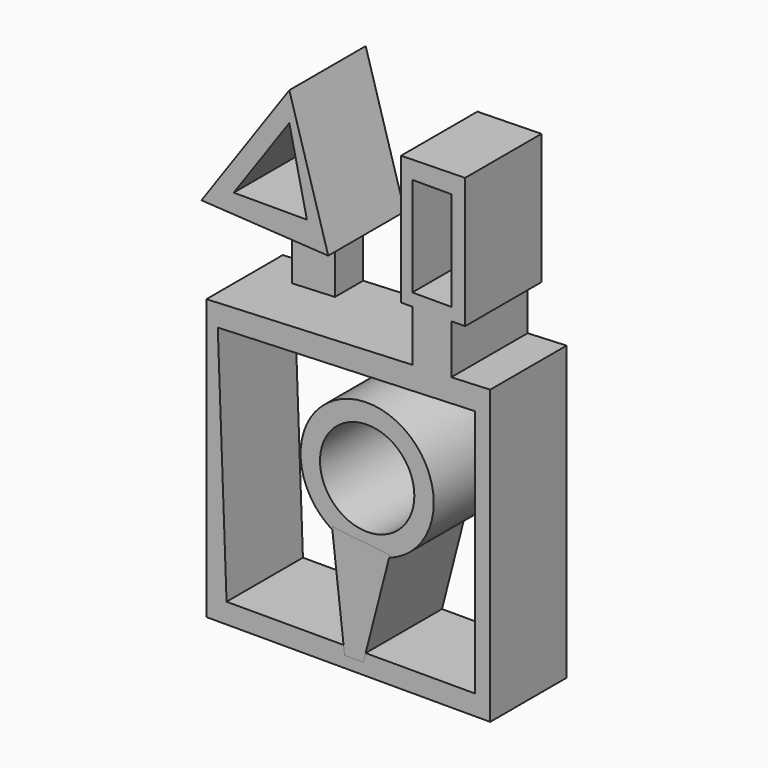
from build123d import *

# Parameters (mm, degrees)
F1_DEPTH  = 25.4
F3_DEPTH  = 25.4
F4_W      = 11.358415
F4_H      = 21.714611
F5_DEPTH  = 9.398
F6_R      = 17.718364
F6_R_2    = 12.557692
F7_DEPTH  = 25.4
F9_DEPTH  = 25.4
F10_W     = 10.356202
F10_H     = 26.39161
F11_DEPTH = 25.4


with BuildPart() as f1:
    # F0 (on Front) → F1 (new body)
    with BuildSketch(Plane.XZ):
        Polygon((38.752235, 20.378331), (-36.747809, 17.037621), (-36.747809, -57.460207), (38.752235, -57.460207), align=None)
        Polygon((-31.402674, -52.115075), (-33.741169, 11.358414), (34.743384, 14.030981), (34.743384, -52.115075), align=None, mode=Mode.SUBTRACT)
    extrude(amount=F1_DEPTH)

    # F10 (on Front) → F11 (join)
    with BuildSketch(Plane.XZ):
        Polygon((15.033196, 67.482337), (15.033196, 33.073027), (18.039834, 33.073027), (28.396036, 33.073027), (32.070816, 33.073027), (32.070816, 67.816406), align=None)
        with Locations((23.217935, 49.609542)):
            Rectangle(F10_W, F10_H, mode=Mode.SUBTRACT)
        Polygon((28.396036, 33.073027), (18.039834, 33.073027), (18.039834, 17.705763), (28.396036, 18.373903), align=None)
    extrude(amount=F11_DEPTH)


with BuildPart() as f3:
    # F2 (on Front) → F3 (new body)
    with BuildSketch(Plane.XZ):
        Polygon((-14.699123, 73.161542), (-38.084093, 39.754447), (-4.342924, 37.750021), align=None)
        Polygon((-29.499142, 44.335034), (-14.699123, 65.477915), (-10.02213, 44.335034), align=None, mode=Mode.SUBTRACT)
    extrude(amount=F3_DEPTH)


with BuildPart() as f5:
    # F4 (on Front) → F5 (new body)
    with BuildSketch(Plane.XZ):
        with Locations((-21.046473, 27.894926)):
            Rectangle(F4_W, F4_H)
    extrude(amount=F5_DEPTH)


with BuildPart() as f7:
    # F6 (on Front) → F7 (new body)
    with BuildSketch(Plane.XZ):
        with Locations((6.013276, -11.024343)):
            Circle(F6_R)
        with Locations((6.013276, -11.024343)):
            Circle(F6_R_2, mode=Mode.SUBTRACT)
    extrude(amount=F7_DEPTH)


with BuildPart() as f9:
    # F8 (on Front) → F9 (new body)
    with BuildSketch(Plane.XZ):
        Polygon((12.026555, -27.059751), (-3.340709, -25.389396), (0, -54.45357), (5.011065, -54.45357), align=None)
    extrude(amount=F9_DEPTH)


solid = Compound([f1.part, f3.part, f5.part, f7.part, f9.part])
